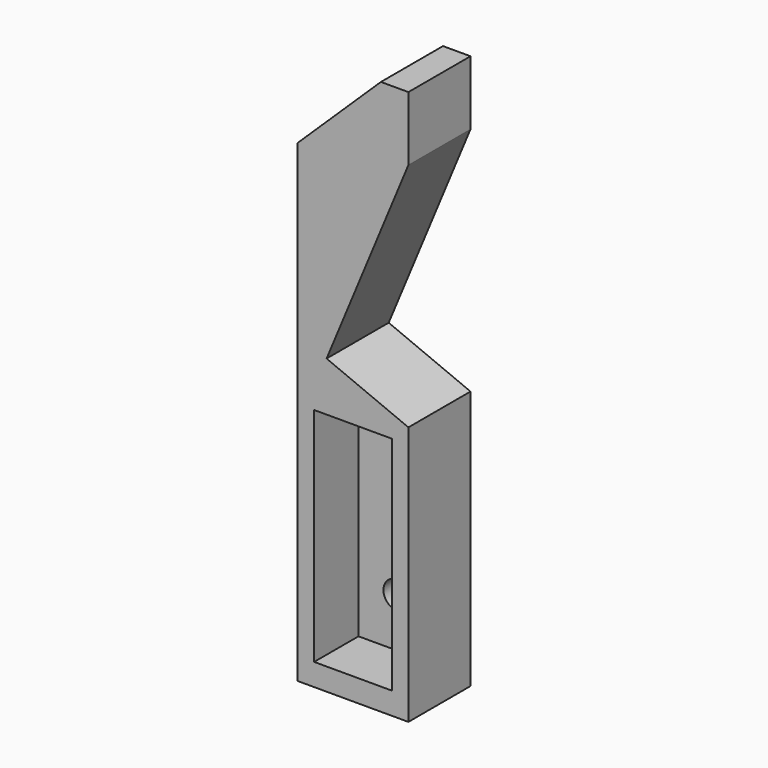
from build123d import *

# Parameters (mm, degrees)
F0_W     = 10
F0_H     = 50
F1_DEPTH = 7
F2_W     = 7
F2_H     = 20
F3_DEPTH = 5
F4_R     = 1.25
F5_DEPTH = 2.001
F7_DEPTH = 7.001


with BuildPart() as f1:
    # F0 (on Front) → F1 (new body)
    with BuildSketch(Plane.XZ):
        with Locations((-27.172005, 27.438496)):
            Rectangle(F0_W, F0_H)
    extrude(amount=F1_DEPTH)

    # F2 (on face) → F3 (cut)
    with BuildSketch(Plane.XZ.offset(7)):
        with Locations((-27.172005, 14.438496)):
            Rectangle(F2_W, F2_H)
    extrude(amount=-F3_DEPTH, mode=Mode.SUBTRACT)

    # F4 (on face) → F5 (cut, through all)
    with BuildSketch(Plane.XZ.offset(2)):
        with Locations((-27.172005, 8.848467)):
            Circle(F4_R)
    extrude(amount=-F5_DEPTH, mode=Mode.SUBTRACT)

    # F6 (on face) → F7 (cut, through all)
    with BuildSketch(Plane.XZ.offset(7)):
        Polygon((-32.172005, 52.438496), (-32.172005, 45.144096), (-24.652329, 52.438496), align=None)
        Polygon((-29.548446, 28.8854), (-22.172005, 25.822317), (-22.172005, 46.649169), align=None)
    extrude(amount=-F7_DEPTH, mode=Mode.SUBTRACT)


solid = f1.part
